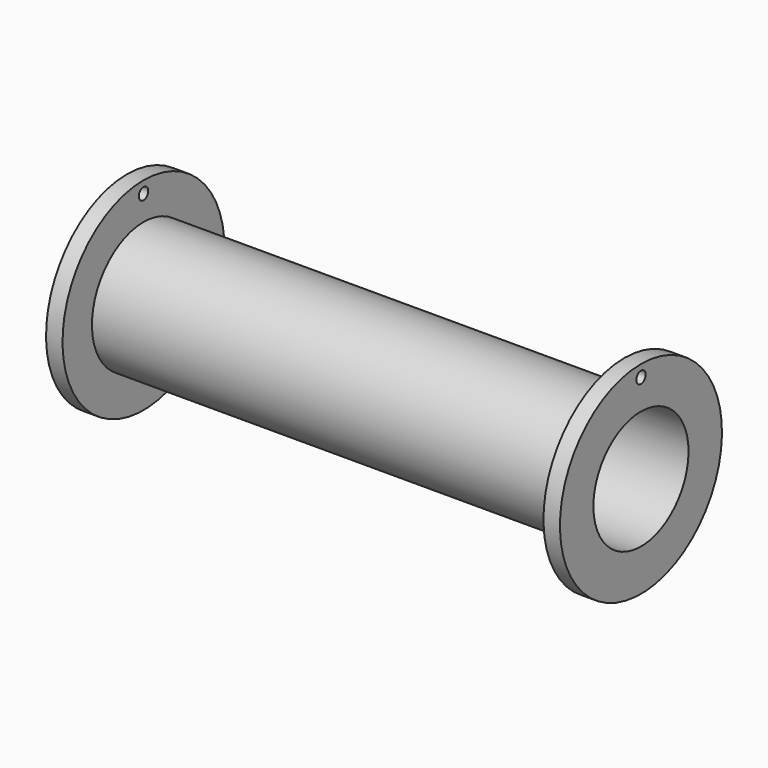
from build123d import *

# Parameters (mm, degrees)
F3_R     = 10
F4_DEPTH = 873.001


with BuildPart() as f1:
    # F0 (on Front) → F1 (revolve)
    with BuildSketch(Plane.XZ):
        Polygon((408.5, 109.5), (0, 109.5), (0, 101), (436.5, 101), (436.5, 172), (408.5, 172), align=None)
    revolve(axis=Axis((75.477585, 0, 0), (1, 0, 0)))

    # F2: F1 across plane


with BuildPart() as f1_1:
    add(f1.part)
    add(f1.part.mirror(Plane.YZ))

    # F3 (on face) → F4 (cut, through all)
    with BuildSketch(Plane.YZ.offset(436.5)):
        with Locations((0, 152)):
            Circle(F3_R)
    extrude(amount=-F4_DEPTH, mode=Mode.SUBTRACT)


solid = f1_1.part
